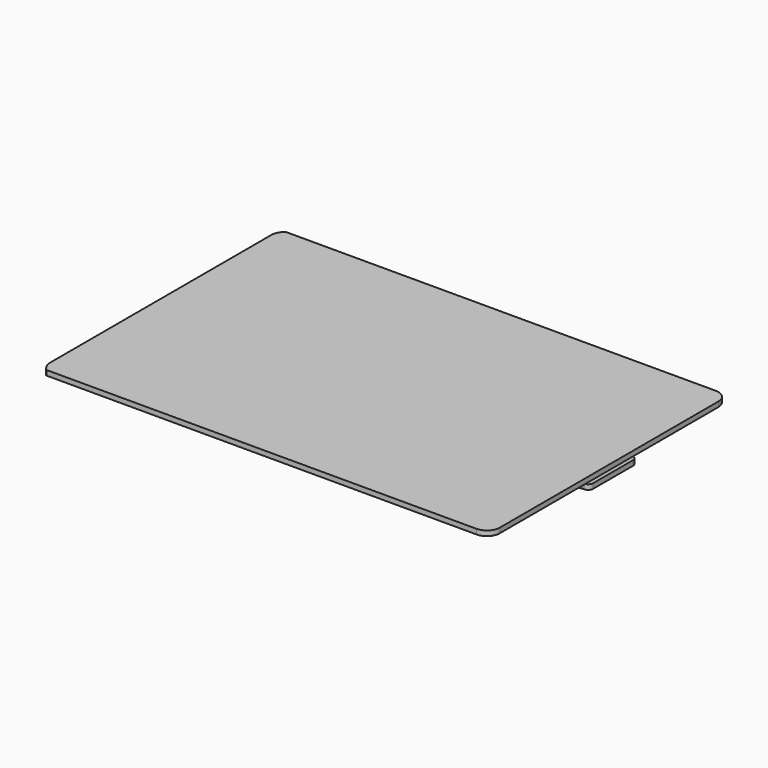
from build123d import *

# Parameters (mm, degrees)
PAD001_DEPTH    = 1
PAD002_DEPTH    = 1
POCKET008_DEPTH = 1
PAD003_DEPTH    = 0.5


with BuildPart() as part:
    # Sketch013 → Pad001 (new body)
    with BuildSketch(Plane(origin=(0, 0, 1), x_dir=(1, 0, 0), z_dir=(0, 0, -1))):
        with BuildLine():
            Line((-44.435135, 30), (41.9, 30))
            ThreePointArc((44.5, 27.4), (43.738478, 29.238478), (41.9, 30))
            Line((44.5, 27.4), (44.5, -8))
            Line((44.5, -8), (44.5, -27.4))
            ThreePointArc((41.9, -30), (43.738478, -29.238478), (44.5, -27.4))
            Line((41.9, -30), (-44.456737, -30))
            ThreePointArc((-45.5, -28.066977), (-45.129401, -29.115001), (-44.456737, -30))
            Line((-45.5, -28.066977), (-45.5, 27.985957))
            ThreePointArc((-44.435135, 30), (-45.131089, 29.079436), (-45.5, 27.985957))
        make_face()
    extrude(amount=-PAD001_DEPTH)

    # Sketch (on Face17 of Pad001) → Pad002 (join)
    with BuildSketch(Plane(origin=(0, 0, 1), x_dir=(1, 0, 0), z_dir=(0, 0, -1))):
        with BuildLine():
            Line((-42.5, 28), (41.9, 28))
            ThreePointArc((43, 26.9), (42.677817, 27.677817), (41.9, 28))
            Line((43, 26.9), (43, 6.999999))
            ThreePointArc((43, 6.999999), (43.292894, 6.292892), (44.000002, 5.999999))
            Line((44.000002, 5.999999), (44.299998, 6))
            ThreePointArc((45.3, 5), (45.007106, 5.707108), (44.299998, 6))
            Line((45.3, 5), (45.3, -5))
            ThreePointArc((44.3, -6), (45.007107, -5.707107), (45.3, -5))
            Line((44.3, -6), (44, -6))
            ThreePointArc((44, -6), (43.292893, -6.292893), (43, -7))
            Line((43, -7), (43, -26.9))
            ThreePointArc((41.9, -28), (42.677817, -27.677817), (43, -26.9))
            Line((41.9, -28), (-42.5, -28))
            ThreePointArc((-44.5, -26), (-43.914214, -27.414214), (-42.5, -28))
            Line((-44.5, -26), (-44.5, 26))
            ThreePointArc((-42.5, 28), (-43.914214, 27.414214), (-44.5, 26))
        make_face()
    extrude(amount=PAD002_DEPTH)

    # Sketch014 (on Face33 of Pad002) → Pocket008 (cut)
    with BuildSketch(Plane(origin=(0, 0, 0), x_dir=(1, 0, 0), z_dir=(0, 0, -1))):
        with BuildLine():
            ThreePointArc((-34.5, 10), (-35.5, 11), (-36.5, 10))
            Line((-36.5, 10), (-36.5, -10))
            ThreePointArc((-36.5, -10), (-35.5, -11), (-34.5, -10))
            Line((-34.5, 10), (-34.5, -10))
        make_face()
        with BuildLine():
            ThreePointArc((-29.5, 7.5), (-30.5, 8.5), (-31.5, 7.5))
            Line((-31.5, 7.5), (-31.5, -7.5))
            ThreePointArc((-31.5, -7.5), (-30.5, -8.5), (-29.5, -7.5))
            Line((-29.5, 7.5), (-29.5, -7.5))
        make_face()
        with BuildLine():
            ThreePointArc((-24.5, 5), (-25.5, 6), (-26.5, 5))
            Line((-26.5, 5), (-26.5, -5))
            ThreePointArc((-26.5, -5), (-25.5, -6), (-24.5, -5))
            Line((-24.5, 5), (-24.5, -5))
        make_face()
    extrude(amount=-POCKET008_DEPTH, mode=Mode.SUBTRACT)

    # Sketch018 → Pad003 (join)
    with BuildSketch(Plane(origin=(0, 0, 0), x_dir=(1, 0, 0), z_dir=(0, 0, -1))):
        with BuildLine():
            ThreePointArc((-19.178645, 4.065563), (-19.770986, 5.422662), (-20.257843, 4.02425))
            Line((-19.607164, 4.02425), (-20.257843, 4.02425))
            Line((-19.607164, 4.662537), (-19.607164, 4.02425))
            Line((-19.864105, 4.662537), (-19.607164, 4.662537))
            Line((-19.864105, 4.279981), (-19.864105, 4.662537))
            Line((-20.136271, 4.278077), (-19.864105, 4.279981))
            ThreePointArc((-19.340241, 4.256444), (-19.714, 5.15983), (-20.136271, 4.278077))
            Line((-19.340241, 4.256444), (-19.178645, 4.065563))
        make_face()
        with BuildLine():
            Line((-20.488071, 3.608591), (-20.488071, 3.890274))
            Line((-20.488071, 3.890274), (-18.978783, 3.890274))
            Line((-18.978783, 3.890274), (-18.978783, 3.100419))
            ThreePointArc((-20.044957, 3.103948), (-19.513428, 2.631619), (-18.978783, 3.100419))
            Line((-20.044957, 3.608591), (-20.044957, 3.103948))
            Line((-20.488071, 3.608591), (-20.044957, 3.608591))
        make_face()
        with BuildLine():
            Line((-19.775537, 3.604784), (-19.247917, 3.604784))
            Line((-19.247917, 3.604784), (-19.247917, 3.178416))
            ThreePointArc((-19.775537, 3.171894), (-19.508387, 2.904974), (-19.247917, 3.178416))
            Line((-19.775537, 3.604784), (-19.775537, 3.171894))
        make_face(mode=Mode.SUBTRACT)
        with BuildLine():
            ThreePointArc((-19.113497, 1.900377), (-19.817004, 2.566128), (-20.491902, 1.871391))
            Line((-20.491902, 1.756633), (-20.491902, 1.871391))
            Line((-20.488619, 1.666052), (-20.491902, 1.756633))
            Line((-20.468206, 1.558885), (-20.488619, 1.666052))
            Line((-20.44014, 1.472131), (-20.468206, 1.558885))
            Line((-20.410795, 1.401963), (-20.44014, 1.472131))
            Line((-20.370947, 1.336456), (-20.410795, 1.401963))
            Line((-20.329077, 1.277455), (-20.370947, 1.336456))
            Line((-20.294817, 1.237487), (-20.329077, 1.277455))
            Line((-20.294817, 1.237487), (-20.228203, 1.32123))
            Line((-20.228203, 1.32123), (-20.271978, 1.372618))
            Line((-20.271978, 1.372618), (-20.294817, 1.410684))
            Line((-20.294817, 1.410684), (-20.330978, 1.477298))
            Line((-20.330978, 1.477298), (-20.361431, 1.542009))
            Line((-20.361431, 1.542009), (-20.382368, 1.610526))
            Line((-20.382368, 1.610526), (-20.397593, 1.680947))
            Line((-20.397593, 1.680947), (-20.4014, 1.772303))
            Line((-20.4014, 1.772303), (-20.393758, 1.872705))
            ThreePointArc((-19.220868, 1.770637), (-19.75125, 2.465903), (-20.393758, 1.872705))
            Line((-19.220868, 1.770637), (-19.216654, 1.68774))
            Line((-19.216654, 1.68774), (-19.224308, 1.636709))
            Line((-19.224308, 1.636709), (-19.238342, 1.580574))
            Line((-19.238342, 1.580574), (-19.252375, 1.534645))
            Line((-19.252375, 1.534645), (-19.268961, 1.495095))
            Line((-19.268961, 1.495095), (-19.291925, 1.44534))
            Line((-19.291925, 1.44534), (-19.31489, 1.408342))
            Line((-19.31489, 1.408342), (-19.351887, 1.356034))
            Line((-19.351887, 1.356034), (-19.385057, 1.320312))
            Line((-19.385057, 1.320312), (-19.318716, 1.242488))
            Line((-19.318716, 1.242488), (-19.281719, 1.278211))
            Line((-19.281719, 1.278211), (-19.247272, 1.329242))
            Line((-19.247272, 1.329242), (-19.196241, 1.421099))
            Line((-19.196241, 1.421099), (-19.165621, 1.489992))
            Line((-19.165621, 1.489992), (-19.136278, 1.588228))
            Line((-19.136278, 1.588228), (-19.117142, 1.697947))
            Line((-19.117142, 1.697947), (-19.113314, 1.802562))
            Line((-19.114285, 1.854486), (-19.113314, 1.802562))
            Line((-19.113497, 1.900377), (-19.114285, 1.854486))
        make_face()
        with BuildLine():
            ThreePointArc((-19.939758, 0.700084), (-20.026972, 0.523476), (-19.947862, 0.343093))
            ThreePointArc((-20.02713, 0.273884), (-19.949097, 0.264508), (-19.947862, 0.343093))
            ThreePointArc((-20.011443, 0.776556), (-20.13147, 0.528721), (-20.02713, 0.273884))
            ThreePointArc((-19.939758, 0.700084), (-19.945244, 0.766776), (-20.011443, 0.776556))
        make_face()
        with BuildLine():
            ThreePointArc((-20.11179, 0.845381), (-20.250072, 0.517295), (-20.110512, 0.189749))
            ThreePointArc((-20.184528, 0.113415), (-20.108708, 0.113949), (-20.110512, 0.189749))
            ThreePointArc((-20.186098, 0.921432), (-20.356398, 0.517091), (-20.184528, 0.113415))
            ThreePointArc((-20.11179, 0.845381), (-20.111066, 0.920417), (-20.186098, 0.921432))
        make_face()
        with BuildLine():
            ThreePointArc((-20.259461, 0.988948), (-20.455948, 0.523841), (-20.267437, 0.055445))
            ThreePointArc((-20.361016, -0.002564), (-20.279899, -0.028936), (-20.267437, 0.055445))
            ThreePointArc((-20.351417, 1.049198), (-20.563784, 0.525211), (-20.361016, -0.002564))
            ThreePointArc((-20.259461, 0.988948), (-20.272532, 1.069297), (-20.351417, 1.049198))
        make_face()
        Polygon((-19.857657, 0.209475), (-19.857657, 0.883536), (-19.846342, 0.917306), (-19.836596, 0.939663), (-19.815386, 0.972338), (-19.789017, 0.990682), (-19.755194, 1.003867), (-19.725386, 1.009026), (-19.69099, 1.005014), (-19.657167, 0.998708), (-19.624493, 0.979217), (-19.594685, 0.952274), (-19.582645, 0.926478), (-19.572901, 0.896669), (-19.545383, 0.900682), (-19.522453, 0.904121), (-19.482327, 0.904121), (-19.459396, 0.894949), (-19.437853, 0.879305), (-19.416643, 0.859241), (-19.405178, 0.830006), (-19.398872, 0.803063), (-19.404604, 0.777266), (-19.408617, 0.748604), (-19.410337, 0.737712), (-19.390846, 0.727967), (-19.36677, 0.720514), (-19.342119, 0.70733), (-19.326069, 0.692998), (-19.298552, 0.663762), (-19.274475, 0.63338), (-19.254532, 0.597695), (-19.243641, 0.560434), (-19.232748, 0.51572), (-19.228737, 0.478458), (-19.230455, 0.44521), (-19.236761, 0.421133), (-19.24708, 0.386165), (-19.261984, 0.358075), (-19.281475, 0.321387), (-19.295233, 0.305336), (-19.319309, 0.282979), (-19.341667, 0.268075), (-19.364597, 0.25489), (-19.392687, 0.241705), (-19.427082, 0.233106), (-19.455172, 0.227947), (-19.487272, 0.223934), (-19.50275, 0.223361), (-19.505318, 0.189806), (-19.515579, 0.161585), (-19.528406, 0.130798), (-19.54038, 0.104287), (-19.564325, 0.07521), (-19.595966, 0.054685), (-19.628464, 0.039292), (-19.662672, 0.029885), (-19.696024, 0.029885), (-19.740494, 0.040147), (-19.772137, 0.060672), (-19.799503, 0.082052), (-19.819172, 0.105142), (-19.839697, 0.136784), (-19.853798, 0.171431), align=None)
        with BuildLine():
            Line((-19.905917, -0.386614), (-20.516964, -0.386614))
            Line((-20.516964, -0.386614), (-20.516964, -0.273071))
            Line((-20.516964, -0.273071), (-19.453037, -0.273071))
            Line((-19.453037, -0.273071), (-19.453037, -0.381557))
            Line((-19.453037, -0.381557), (-19.633747, -0.382638))
            ThreePointArc((-19.861385, -1.238777), (-19.449844, -0.889868), (-19.633747, -0.382638))
            Line((-20.511255, -1.238777), (-19.861385, -1.238777))
            Line((-20.511255, -1.129988), (-20.511255, -1.238777))
            Line((-19.887984, -1.129988), (-20.511255, -1.129988))
            ThreePointArc((-19.887984, -1.129988), (-19.528602, -0.749415), (-19.905917, -0.386614))
        make_face()
        with BuildLine():
            Line((-19.930946, -1.510706), (-20.514109, -1.510706))
            Line((-20.514109, -1.510706), (-20.514109, -1.411161))
            Line((-20.514109, -1.411161), (-19.452642, -1.411161))
            Line((-19.452642, -1.411161), (-19.452642, -1.508256))
            Line((-19.452642, -1.508256), (-19.643, -1.508256))
            ThreePointArc((-19.863014, -2.376875), (-19.453166, -2.018513), (-19.643, -1.508256))
            Line((-20.511555, -2.376875), (-19.863014, -2.376875))
            Line((-20.511555, -2.263856), (-20.511555, -2.376875))
            Line((-19.892294, -2.263856), (-20.511555, -2.263856))
            ThreePointArc((-19.892294, -2.263856), (-19.530222, -1.867707), (-19.930946, -1.510706))
        make_face()
        with BuildLine():
            ThreePointArc((-19.649052, -3.360921), (-20.017218, -2.576389), (-20.257172, -3.409131))
            Line((-20.257172, -3.409131), (-20.323223, -3.485161))
            ThreePointArc((-19.636866, -3.46997), (-20.001993, -2.485887), (-20.323223, -3.485161))
            Line((-19.683903, -3.497004), (-19.636866, -3.46997))
            Line((-19.756594, -3.526936), (-19.683903, -3.497004))
            Line((-19.80192, -3.536343), (-19.756594, -3.526936))
            Line((-19.845533, -3.547461), (-19.80192, -3.536343))
            Line((-19.900267, -3.552592), (-19.845533, -3.547461))
            Line((-19.945591, -3.552592), (-19.900267, -3.552592))
            Line((-20.03853, -3.552592), (-19.945591, -3.552592))
            Line((-20.03853, -2.605661), (-20.03853, -3.552592))
            Line((-19.94346, -2.605661), (-20.03853, -2.605661))
            Line((-19.94346, -3.454093), (-19.94346, -2.605661))
            Line((-19.9007, -3.452383), (-19.94346, -3.454093))
            Line((-19.848534, -3.446396), (-19.9007, -3.452383))
            Line((-19.802378, -3.435897), (-19.848534, -3.446396))
            Line((-19.764725, -3.425017), (-19.802378, -3.435897))
            Line((-19.728184, -3.408755), (-19.764725, -3.425017))
            Line((-19.654242, -3.366248), (-19.728184, -3.408755))
            Line((-19.649052, -3.360921), (-19.654242, -3.366248))
        make_face()
        with BuildLine():
            ThreePointArc((-19.674266, -4.51689), (-19.988045, -3.758584), (-20.302193, -4.516737))
            Line((-20.302193, -4.516737), (-20.373072, -4.59375))
            ThreePointArc((-19.603055, -4.593574), (-19.988279, -3.653992), (-20.373072, -4.59375))
            Line((-19.674266, -4.51689), (-19.603055, -4.593574))
        make_face()
        Polygon((-20.196117, -4.945798), (-19.545473, -4.945798), (-19.545473, -5.306616), (-19.454327, -5.306616), (-19.454327, -4.945723), (-19.138552, -4.945723), (-19.138552, -4.840718), (-19.455561, -4.840718), (-19.455561, -4.615536), (-19.546022, -4.615536), (-19.546022, -4.839946), (-20.193638, -4.839946), (-20.245502, -4.839946), (-20.275602, -4.841739), (-20.313259, -4.848272), (-20.355913, -4.860953), (-20.380507, -4.869406), (-20.399336, -4.878244), (-20.429308, -4.895152), (-20.458897, -4.917439), (-20.478109, -4.939342), (-20.493481, -4.964704), (-20.510262, -5.000831), (-20.521727, -5.03064), (-20.528032, -5.067902), (-20.534912, -5.113189), (-20.533192, -5.154463), (-20.529179, -5.20319), (-20.518288, -5.240451), (-20.496504, -5.298923), (-20.478159, -5.337905), (-20.397903, -5.300643), (-20.411661, -5.262235), (-20.427713, -5.219241), (-20.435165, -5.182553), (-20.438604, -5.137266), (-20.438604, -5.090832), (-20.427139, -5.057583), (-20.417395, -5.026054), (-20.392172, -4.994525), (-20.360069, -4.972741), (-20.316502, -4.957263), (-20.268349, -4.948091), (-20.227074, -4.945798), align=None)
    extrude(amount=PAD003_DEPTH)


solid = part.part
